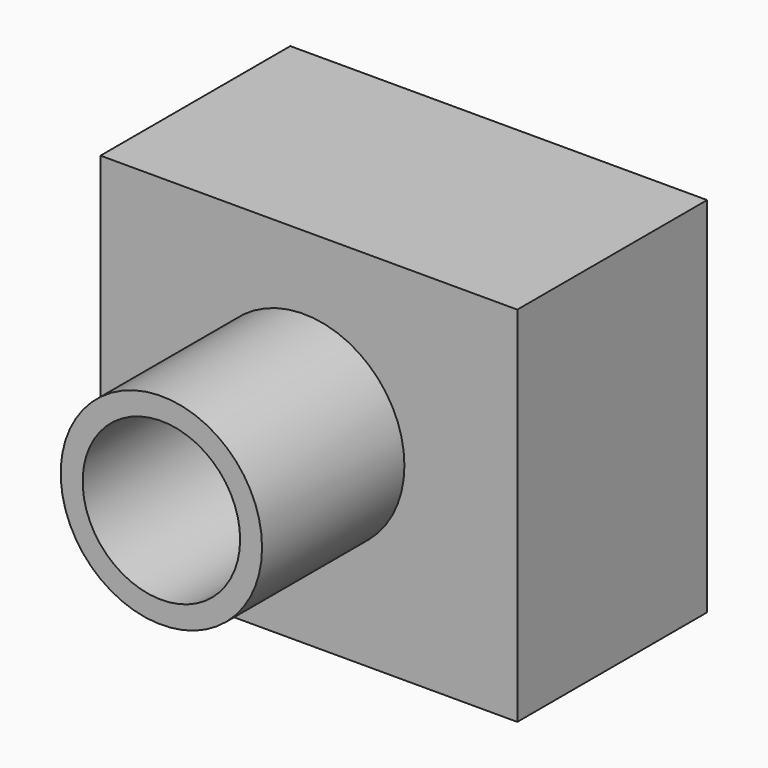
from build123d import *

# Parameters (mm, degrees)
F0_W     = 89.250375
F0_H     = 77.722203
F1_DEPTH = 50.8
F2_R     = 21.558344
F3_DEPTH = 38.1
F4_R     = 16.858314
F5_DEPTH = 127


with BuildPart() as f1:
    # F0 (on Front) → F1 (new body)
    with BuildSketch(Plane.XZ):
        with Locations((1.109326, -1.622727)):
            Rectangle(F0_W, F0_H)
    extrude(amount=F1_DEPTH)

    # F2 (on face) → F3 (join)
    with BuildSketch(Plane.XZ.offset(50.8)):
        Circle(F2_R)
    extrude(amount=F3_DEPTH)

    # F4 (on face) → F5 (cut)
    with BuildSketch(Plane.XZ.offset(88.9)):
        Circle(F4_R)
    extrude(amount=-F5_DEPTH, mode=Mode.SUBTRACT)


solid = f1.part
